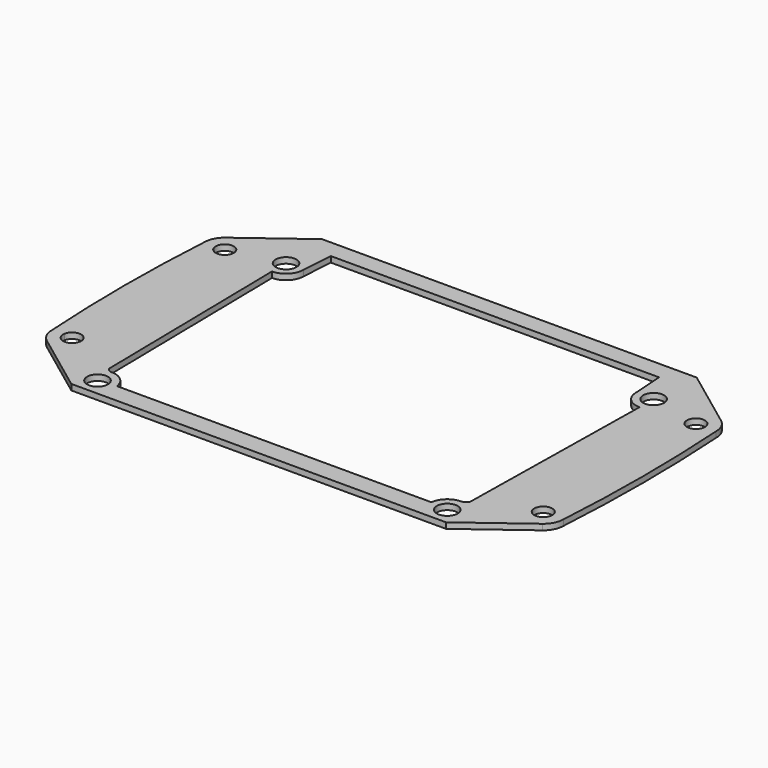
from build123d import *

# Parameters (mm, degrees)
F0_R     = 4.953
F0_R_2   = 5.715
F1_DEPTH = 3.175


with BuildPart() as f1:
    # F0 (on Top) → F1 (new body)
    with BuildSketch(Plane.XY):
        with BuildLine():
            ThreePointArc((-134.709203531, 128.651991081), (-135.82649827, 86.0425), (-134.709203531, 43.433008919))
            ThreePointArc((-134.709203531, 43.433008919), (-123.6674242276, 43.2492636652), (-118.1989, 33.655))
            ThreePointArc((-118.1989, 33.655), (-124.3490243362, 23.6884999375), (-136.0151831589, 24.7160655901))
            Line((-136.0151831589, 24.7160655901), (-110.3637203422, 5.588))
            Line((-110.3637203422, 5.588), (-105.0020482418, 5.588))
            ThreePointArc((-105.0020482418, 5.588), (-104.1747020924, 14.8211845444), (-96.012, 19.2151))
            ThreePointArc((-96.012, 19.2151), (-97.7879818424, 19.8268548269), (-99.06, 21.209))
            Line((-99.06, 21.209), (-100.9015, 135.2931))
            ThreePointArc((-100.9015, 135.2931), (-107.726494652, 151.770094652), (-91.2495, 144.9451))
            Line((-91.2495, 144.9451), (-90.1065, 162.179))
            Line((-90.1065, 162.179), (0, 162.179))
            Line((0, 162.179), (90.1065, 162.179))
            Line((90.1065, 162.179), (91.2495, 144.9451))
            ThreePointArc((91.2495, 144.9451), (100.9015, 154.5971), (110.5535, 144.9451))
            ThreePointArc((110.5535, 144.9451), (107.726494652, 138.120105348), (100.9015, 135.2931))
            Line((100.9015, 135.2931), (99.06, 21.209))
            ThreePointArc((99.06, 21.209), (97.7879818424, 19.8268548269), (96.012, 19.2151))
            ThreePointArc((96.012, 19.2151), (102.9267972132, 16.3508972132), (105.791, 9.4361))
            ThreePointArc((105.791, 9.4361), (105.591731801, 7.4720277962), (105.0020482418, 5.588))
            Line((105.0020482418, 5.588), (110.3637203422, 5.588))
            Line((110.3637203422, 5.588), (136.0151831589, 24.7160655901))
            ThreePointArc((136.0151831589, 24.7160655901), (119.3829999375, 38.6554756638), (140.5001, 33.655))
            ThreePointArc((140.5001, 33.655), (141.7572927653, 59.8353422316), (142.1765, 86.0425000001))
            ThreePointArc((142.1765, 86.0425000001), (141.7572927653, 112.2496577685), (140.5001, 138.43))
            ThreePointArc((140.5001, 138.43), (119.3829999375, 133.4295243362), (136.0151831589, 147.3689344099))
            Line((136.0151831589, 147.3689344099), (110.3637203422, 166.497))
            Line((110.3637203422, 166.497), (-110.3637203422, 166.497))
            Line((-110.3637203422, 166.497), (-136.0151831589, 147.3689344099))
            ThreePointArc((-136.0151831589, 147.3689344099), (-124.3490243362, 148.3965000625), (-118.1989, 138.43))
            ThreePointArc((-118.1989, 138.43), (-123.6674242276, 128.8357363348), (-134.709203531, 128.651991081))
        make_face()
        with BuildLine():
            ThreePointArc((-140.5001, 138.43), (-138.9437636652, 132.7479242276), (-134.709203531, 128.651991081))
            ThreePointArc((-134.709203531, 128.651991081), (-123.6674242276, 128.8357363348), (-118.1989, 138.43))
            ThreePointArc((-118.1989, 138.43), (-124.3490243362, 148.3965000625), (-136.0151831589, 147.3689344099))
            ThreePointArc((-136.0151831589, 147.3689344099), (-139.3160000625, 143.4304756638), (-140.5001, 138.43))
        make_face()
        with BuildLine():
            ThreePointArc((-124.3965, 138.43), (-128.8477102552, 133.5024837847), (-134.2008270955, 137.4315840484))
            ThreePointArc((-134.2008270955, 137.4315840484), (-129.8512897448, 143.3575162153), (-124.3965, 138.43))
        make_face(mode=Mode.SUBTRACT)
        with BuildLine():
            ThreePointArc((-140.5001, 33.655), (-138.9437636652, 39.3370757724), (-134.709203531, 43.433008919))
            ThreePointArc((-134.709203531, 43.433008919), (-135.82649827, 86.0425), (-134.709203531, 128.651991081))
            ThreePointArc((-134.709203531, 128.651991081), (-138.9437636652, 132.7479242276), (-140.5001, 138.43))
            ThreePointArc((-140.5001, 138.43), (-141.7572927653, 112.2496577685), (-142.1765, 86.0425000001))
            ThreePointArc((-142.1765, 86.0425000001), (-141.7572927653, 59.8353422316), (-140.5001, 33.655))
        make_face()
        with BuildLine():
            ThreePointArc((-118.1989, 33.655), (-123.6674242276, 43.2492636652), (-134.709203531, 43.433008919))
            ThreePointArc((-134.709203531, 43.433008919), (-138.9437636652, 39.3370757724), (-140.5001, 33.655))
            ThreePointArc((-140.5001, 33.655), (-139.3160000625, 28.6545243362), (-136.0151831589, 24.7160655901))
            ThreePointArc((-136.0151831589, 24.7160655901), (-124.3490243362, 23.6884999375), (-118.1989, 33.655))
        make_face()
        with BuildLine():
            ThreePointArc((-134.2008270955, 34.6534159516), (-128.8477102552, 38.5825162153), (-124.3965, 33.655))
            ThreePointArc((-124.3965, 33.655), (-129.8512897448, 28.7274837847), (-134.2008270955, 34.6534159516))
        make_face(mode=Mode.SUBTRACT)
        with BuildLine():
            Line((-105.0020482418, 5.588), (-110.3637203422, 5.588))
            Line((-110.3637203422, 5.588), (-102.87, 0))
            Line((-102.87, 0), (-98.57887705, 0))
            ThreePointArc((-98.57887705, 0), (-102.430494103, 2.0583107343), (-105.0020482418, 5.588))
        make_face()
        with BuildLine():
            Line((-100.2373226374, 5.588), (-105.0020482418, 5.588))
            ThreePointArc((-105.0020482418, 5.588), (-102.430494103, 2.0583107343), (-98.57887705, 0))
            Line((-98.57887705, 0), (-93.44512295, 0))
            ThreePointArc((-93.44512295, 0), (-93.043740424, 0.1184674633), (-92.6477942111, 0.254))
            ThreePointArc((-92.6477942111, 0.254), (-89.2837173689, 2.3396886649), (-87.0219517582, 5.588))
            Line((-87.0219517582, 5.588), (-91.7866773626, 5.588))
            ThreePointArc((-91.7866773626, 5.588), (-96.012, 3.7211), (-100.2373226374, 5.588))
        make_face()
        with BuildLine():
            ThreePointArc((-96.012, 19.2151), (-104.1747020924, 14.8211845444), (-105.0020482418, 5.588))
            Line((-105.0020482418, 5.588), (-100.2373226374, 5.588))
            ThreePointArc((-100.2373226374, 5.588), (-98.0751900212, 14.7656845932), (-90.297, 9.4361))
            ThreePointArc((-90.297, 9.4361), (-90.6824154068, 7.3729099788), (-91.7866773626, 5.588))
            Line((-91.7866773626, 5.588), (-87.0219517582, 5.588))
            ThreePointArc((-87.0219517582, 5.588), (-86.432268199, 7.4720277962), (-86.233, 9.4361))
            ThreePointArc((-86.233, 9.4361), (-86.250913458, 10.027733772), (-86.3045882033, 10.6172))
            ThreePointArc((-86.3045882033, 10.6172), (-89.5282177666, 16.7565787378), (-96.012, 19.2151))
        make_face()
        with BuildLine():
            ThreePointArc((-92.6477942111, 0.254), (-93.043740424, 0.1184674633), (-93.44512295, 0))
            Line((-93.44512295, 0), (0, 0))
            Line((0, 0), (93.44512295, 0))
            ThreePointArc((93.44512295, 0), (89.593505897, 2.0583107343), (87.0219517582, 5.588))
            Line((87.0219517582, 5.588), (0, 5.588))
            Line((0, 5.588), (-87.0219517582, 5.588))
            ThreePointArc((-87.0219517582, 5.588), (-89.2837173689, 2.3396886649), (-92.6477942111, 0.254))
        make_face()
        with BuildLine():
            Line((0, 10.6172), (-86.3045882033, 10.6172))
            ThreePointArc((-86.3045882033, 10.6172), (-86.250913458, 10.027733772), (-86.233, 9.4361))
            ThreePointArc((-86.233, 9.4361), (-86.432268199, 7.4720277962), (-87.0219517582, 5.588))
            Line((-87.0219517582, 5.588), (0, 5.588))
            Line((0, 5.588), (87.0219517582, 5.588))
            ThreePointArc((87.0219517582, 5.588), (86.3309894054, 8.0552036), (86.3045882033, 10.6172))
            Line((86.3045882033, 10.6172), (0, 10.6172))
        make_face()
        with BuildLine():
            ThreePointArc((87.0219517582, 5.588), (89.593505897, 2.0583107343), (93.44512295, 0))
            Line((93.44512295, 0), (98.57887705, 0))
            ThreePointArc((98.57887705, 0), (102.430494103, 2.0583107343), (105.0020482418, 5.588))
            Line((105.0020482418, 5.588), (100.2373226374, 5.588))
            ThreePointArc((100.2373226374, 5.588), (96.012, 3.7211), (91.7866773626, 5.588))
            Line((91.7866773626, 5.588), (87.0219517582, 5.588))
        make_face()
        with BuildLine():
            ThreePointArc((96.012, 19.2151), (89.5282177666, 16.7565787378), (86.3045882033, 10.6172))
            ThreePointArc((86.3045882033, 10.6172), (86.3309894054, 8.0552036), (87.0219517582, 5.588))
            Line((87.0219517582, 5.588), (91.7866773626, 5.588))
            ThreePointArc((91.7866773626, 5.588), (93.9488099788, 14.7656845932), (101.727, 9.4361))
            ThreePointArc((101.727, 9.4361), (101.3415845932, 7.3729099788), (100.2373226374, 5.588))
            Line((100.2373226374, 5.588), (105.0020482418, 5.588))
            ThreePointArc((105.0020482418, 5.588), (105.591731801, 7.4720277962), (105.791, 9.4361))
            ThreePointArc((105.791, 9.4361), (102.9267972132, 16.3508972132), (96.012, 19.2151))
        make_face()
        with BuildLine():
            ThreePointArc((105.0020482418, 5.588), (102.430494103, 2.0583107343), (98.57887705, 0))
            Line((98.57887705, 0), (102.87, 0))
            Line((102.87, 0), (110.3637203422, 5.588))
            Line((110.3637203422, 5.588), (105.0020482418, 5.588))
        make_face()
        with BuildLine():
            ThreePointArc((136.0151831589, 24.7160655901), (139.3160000625, 28.6545243362), (140.5001, 33.655))
            ThreePointArc((140.5001, 33.655), (119.3829999375, 38.6554756638), (136.0151831589, 24.7160655901))
        make_face()
        with Locations((129.3495, 33.655)):
            Circle(F0_R, mode=Mode.SUBTRACT)
        with BuildLine():
            ThreePointArc((140.5001, 138.43), (139.3160000625, 143.4304756638), (136.0151831589, 147.3689344099))
            ThreePointArc((136.0151831589, 147.3689344099), (119.3829999375, 133.4295243362), (140.5001, 138.43))
        make_face()
        with Locations((129.3495, 138.43)):
            Circle(F0_R, mode=Mode.SUBTRACT)
        with BuildLine():
            ThreePointArc((91.2495, 144.9451), (94.076505348, 138.120105348), (100.9015, 135.2931))
            ThreePointArc((100.9015, 135.2931), (107.726494652, 138.120105348), (110.5535, 144.9451))
            ThreePointArc((110.5535, 144.9451), (100.9015, 154.5971), (91.2495, 144.9451))
        make_face()
        with Locations((100.9015, 144.9451)):
            Circle(F0_R_2, mode=Mode.SUBTRACT)
        Polygon((-102.87, 172.085), (-110.3637203422, 166.497), (110.3637203422, 166.497), (102.87, 172.085), align=None)
        with BuildLine():
            ThreePointArc((-91.2495, 144.9451), (-107.726494652, 151.770094652), (-100.9015, 135.2931))
            ThreePointArc((-100.9015, 135.2931), (-94.076505348, 138.120105348), (-91.2495, 144.9451))
        make_face()
        with BuildLine():
            ThreePointArc((-95.1865, 144.9451), (-96.8603847455, 140.9039847455), (-100.9015, 139.2301))
            ThreePointArc((-100.9015, 139.2301), (-104.9426152545, 148.9862152545), (-95.1865, 144.9451))
        make_face(mode=Mode.SUBTRACT)
    extrude(amount=F1_DEPTH)


solid = f1.part
